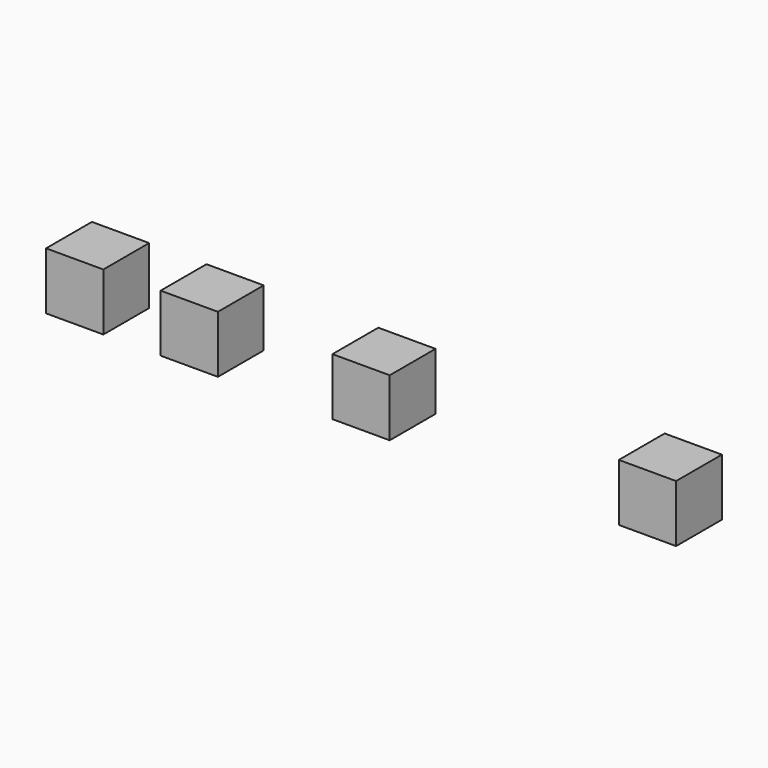
from build123d import *

# Parameters (mm, degrees)
F0_W     = 10
F0_H     = 10
F1_DEPTH = 10


with BuildPart() as f1:
    # F0 (on Top) → F1 (new body)
    with BuildSketch(Plane.XY):
        with Locations((20, 0)):
            Rectangle(F0_W, F0_H)
        Rectangle(F0_W, F0_H)
        with Locations((50, 0)):
            Rectangle(F0_W, F0_H)
        with Locations((100, 0)):
            Rectangle(F0_W, F0_H)
    extrude(amount=F1_DEPTH)


solid = f1.part
